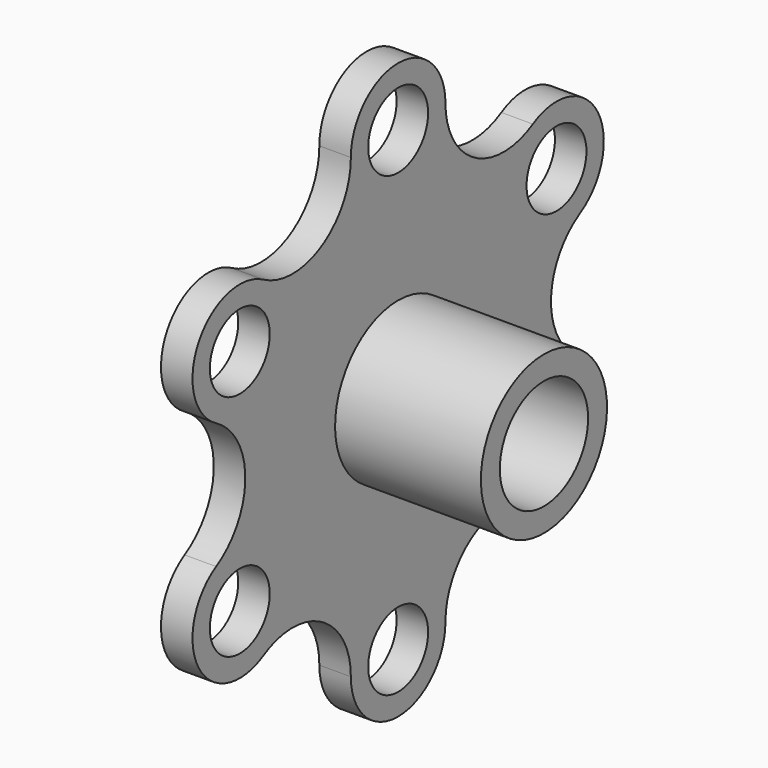
from build123d import *

# Parameters (mm, degrees)
F2_R     = 1.9
F3_DEPTH = 1.6
F5_START = -1.601
F5_DEPTH = 9.002


with BuildPart() as f1:
    # F0 (on Front) → F1 (revolve)
    with BuildSketch(Plane.XZ):
        Polygon((-1.6, 14.6), (-1.6, 2.8), (7.4, 2.8), (7.4, 4), (0, 4), (0, 14.6), align=None)
    revolve(axis=Axis((3.7, 0, 0), (1, 0, 0)))

    # F2 (on Right) → F3 (cut, through all)
    with BuildSketch(Plane.YZ):
        with Locations((0, 11.6)):
            Circle(F2_R)
        with Locations((-10.0458946839, 5.8)):
            Circle(F2_R)
        with Locations((-10.0458946839, -5.8)):
            Circle(F2_R)
        with Locations((0, -11.6)):
            Circle(F2_R)
        with Locations((10.0458946839, -5.8)):
            Circle(F2_R)
        with Locations((10.0458946839, 5.8)):
            Circle(F2_R)
    extrude(amount=-F3_DEPTH, mode=Mode.SUBTRACT)

    # F4 (on Right) → F5 (intersect)
    with BuildSketch(Plane.YZ.offset(F5_START)):
        with BuildLine():
            ThreePointArc((8.5458946839, 8.3980762114), (4.8486315613, 8.3980762114), (3, 11.6))
            ThreePointArc((3, 11.6), (0, 14.6), (-3, 11.6))
            ThreePointArc((-3, 11.6), (-4.8486315613, 8.3980762114), (-8.5458946839, 8.3980762114))
            ThreePointArc((-8.5458946839, 8.3980762114), (-12.6439708953, 7.3), (-11.5458946839, 3.2019237886))
            ThreePointArc((-11.5458946839, 3.2019237886), (-9.6972631226, 0), (-11.5458946839, -3.2019237886))
            ThreePointArc((-11.5458946839, -3.2019237886), (-12.6439708953, -7.3), (-8.5458946839, -8.3980762114))
            ThreePointArc((-8.5458946839, -8.3980762114), (-4.8486315613, -8.3980762114), (-3, -11.6))
            ThreePointArc((-3, -11.6), (0, -14.6), (3, -11.6))
            ThreePointArc((3, -11.6), (4.8486315613, -8.3980762114), (8.5458946839, -8.3980762114))
            ThreePointArc((8.5458946839, -8.3980762114), (12.6439708953, -7.3), (11.5458946839, -3.2019237886))
            ThreePointArc((11.5458946839, -3.2019237886), (9.6972631226, 0), (11.5458946839, 3.2019237886))
            ThreePointArc((11.5458946839, 3.2019237886), (12.6439708953, 7.3), (8.5458946839, 8.3980762114))
        make_face()
    extrude(amount=F5_DEPTH, mode=Mode.INTERSECT)


solid = f1.part
